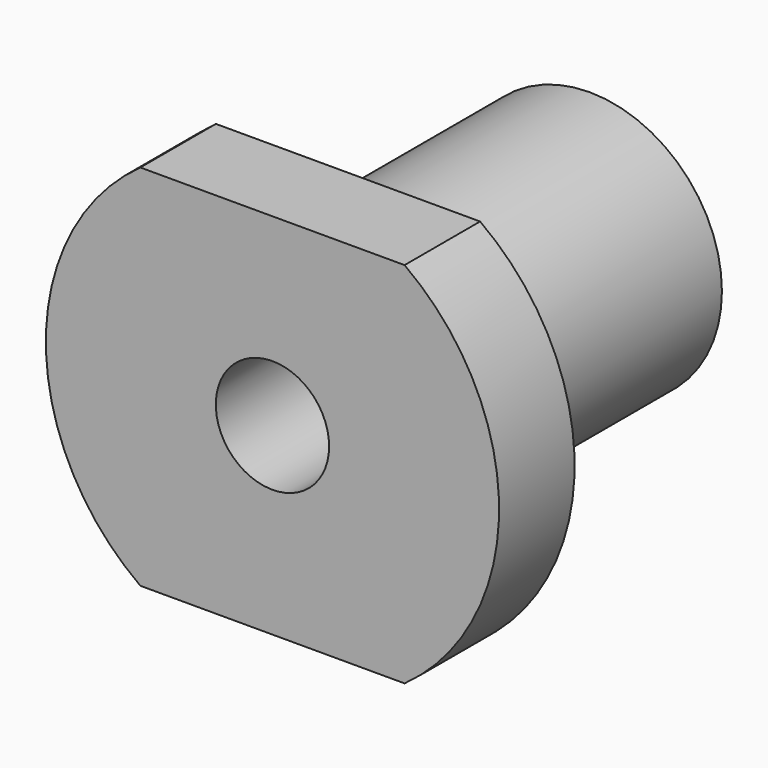
from build123d import *

# Parameters (mm, degrees)
F0_R     = 14
F1_DEPTH = 42
F2_R     = 6
F3_DEPTH = 42
F4_R     = 24
F4_R_2   = 14
F5_DEPTH = 10
F7_DEPTH = 10


with BuildPart() as f1:
    # F0 (on Front) → F1 (new body)
    with BuildSketch(Plane.XZ):
        Circle(F0_R)
    extrude(amount=F1_DEPTH)

    # F2 (on face) → F3 (cut, through all)
    with BuildSketch(Plane.XZ.offset(42)):
        Circle(F2_R)
    extrude(amount=-F3_DEPTH, mode=Mode.SUBTRACT)

    # F4 (on face) → F5 (join)
    with BuildSketch(Plane.XZ.offset(42)):
        Circle(F4_R)
        Circle(F4_R_2, mode=Mode.SUBTRACT)
    extrude(amount=-F5_DEPTH)

    # F6 (on face) → F7 (cut, through all)
    with BuildSketch(Plane.XZ.offset(42)):
        with BuildLine():
            ThreePointArc((13.9910685796, 19.5), (0, 24), (-13.9910685796, 19.5))
            Line((-13.9910685796, 19.5), (13.9910685796, 19.5))
        make_face()
        with BuildLine():
            Line((13.9910685796, -19.5), (-13.9910685796, -19.5))
            ThreePointArc((-13.9910685796, -19.5), (0, -24), (13.9910685796, -19.5))
        make_face()
    extrude(amount=-F7_DEPTH, mode=Mode.SUBTRACT)


solid = f1.part
